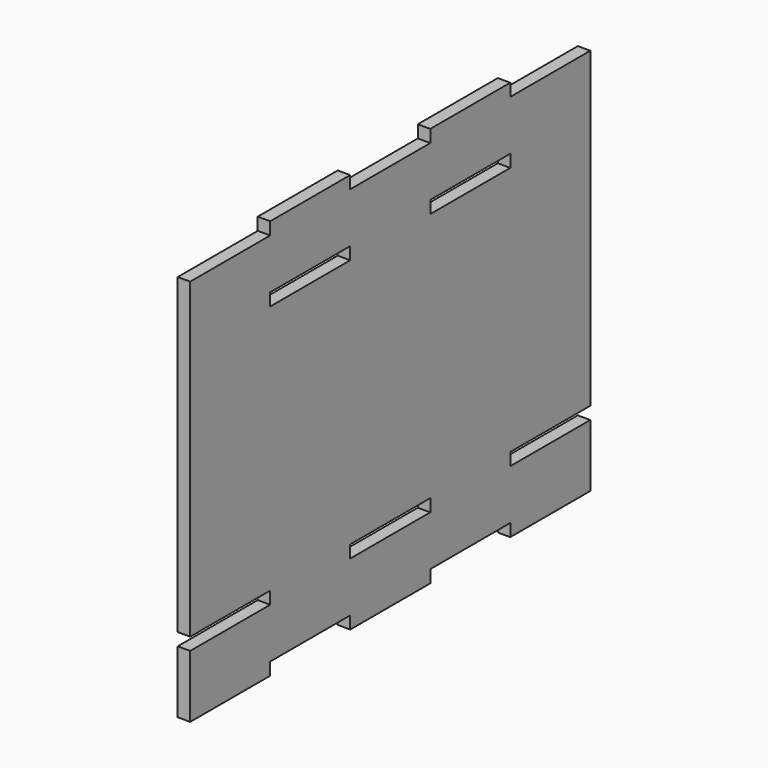
from build123d import *

# Parameters (mm, degrees)
F0_W     = 25.4
F0_H     = 3.175
F1_DEPTH = 3.175


with BuildPart() as f1:
    # F0 (on Right) → F1 (new body)
    with BuildSketch(Plane.YZ):
        Polygon((0, 15.875), (0, 0), (25.4, 0), (25.4, 3.175), (50.8, 3.175), (50.8, 0), (76.2, 0), (76.2, 3.175), (101.6, 3.175), (101.6, 0), (127, 0), (127, 15.875), (101.6, 15.875), (101.6, 19.05), (127, 19.05), (127, 98.425), (101.6, 98.425), (76.2, 98.425), (50.8, 98.425), (25.4, 98.425), (0, 98.425), (0, 19.05), (25.4, 19.05), (25.4, 15.875), align=None)
        with Locations((63.5, 17.4625)):
            Rectangle(F0_W, F0_H, mode=Mode.SUBTRACT)
        with Locations((38.1, 84.1375)):
            Rectangle(F0_W, F0_H, mode=Mode.SUBTRACT)
        with Locations((88.9, 84.1375)):
            Rectangle(F0_W, F0_H, mode=Mode.SUBTRACT)
        with Locations((88.9, 100.0125)):
            Rectangle(F0_W, F0_H)
        with Locations((38.1, 100.0125)):
            Rectangle(F0_W, F0_H)
    extrude(amount=F1_DEPTH)


solid = f1.part
